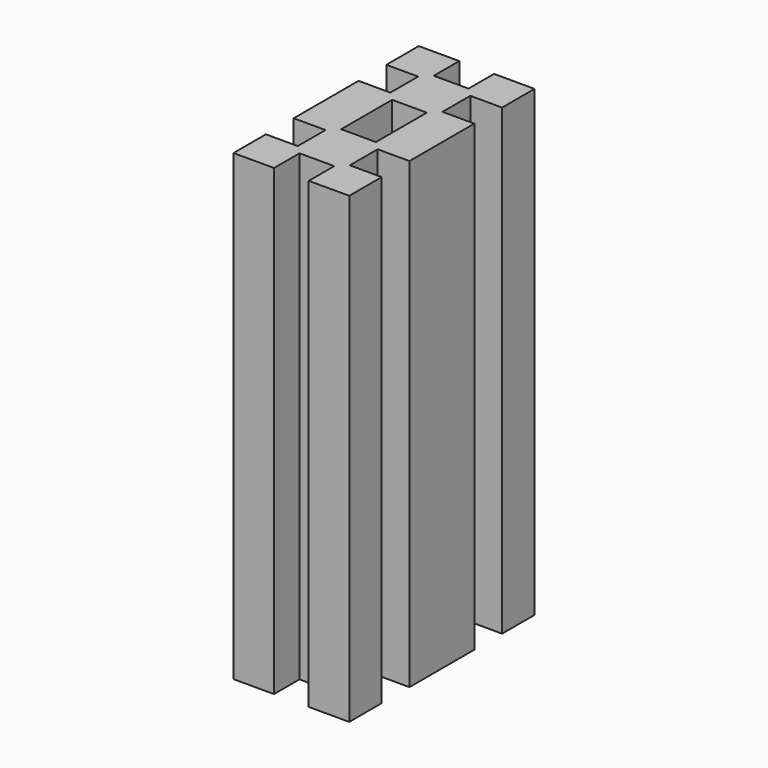
from build123d import *

# Parameters (mm, degrees)
F1_DEPTH = 80


with BuildPart() as f1:
    # F0 (on Top) → F1 (new body)
    with BuildSketch(Plane.XY):
        Polygon((0, 7), (0, 0), (7, 0), (7, 5.5), (13, 5.5), (13, 0), (20, 0), (20, 7), (14.5, 7), (14.5, 13), (20, 13), (20, 20), (13, 20), (13, 14.5), (7, 14.5), (7, 20), (0, 20), (0, 13), (5.5, 13), (5.5, 7), align=None)
        Polygon((7, 0), (0, 0), (0, -7), (5.5, -7), (5.5, -13), (0, -13), (0, -20), (7, -20), (7, -14.5), (13, -14.5), (13, -20), (20, -20), (20, -13), (14.5, -13), (14.5, -7), (20, -7), (20, 0), (13, 0), (13, -5.5), (7, -5.5), align=None)
    extrude(amount=F1_DEPTH)


solid = f1.part
